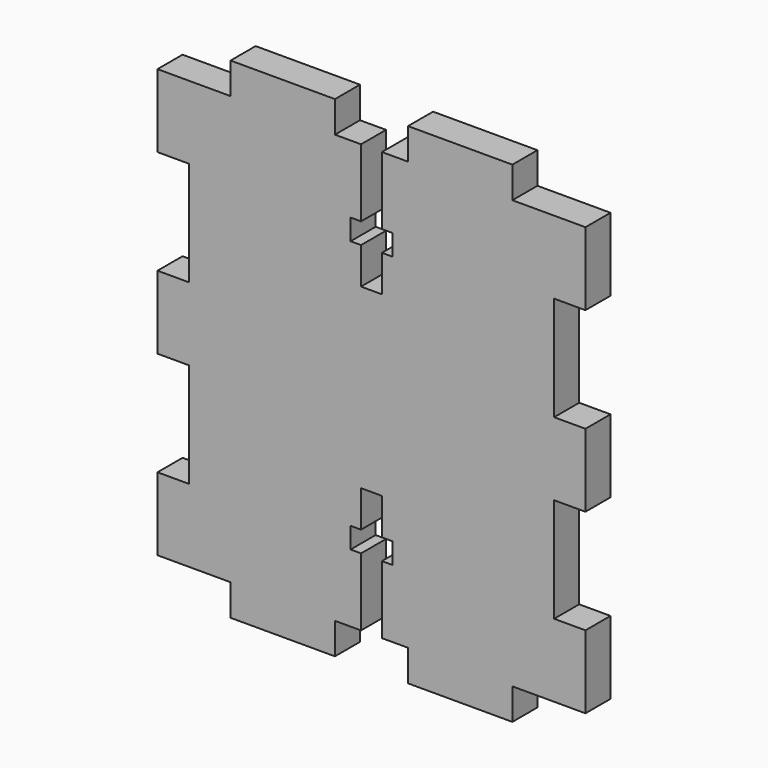
from build123d import *

# Parameters (mm, degrees)
F1_DEPTH = 3


with BuildPart() as f1:
    # F0 (on Front) → F1 (new body)
    with BuildSketch(Plane.XZ):
        Polygon((-7, 0), (0, 0), (0, 7), (-3, 7), (-3, 17), (0, 17), (0, 24), (-3, 24), (-3, 34), (0, 34), (0, 41), (-7, 41), (-7, 44), (-17, 44), (-17, 41), (-19.5, 41), (-19.5, 34.5), (-18.5, 34.5), (-18.5, 32.5), (-19.5, 32.5), (-19.5, 29), (-20.5, 29), (-21.5, 29), (-21.5, 32.5), (-22.5, 32.5), (-22.5, 34.5), (-21.5, 34.5), (-21.5, 41), (-24, 41), (-24, 44), (-34, 44), (-34, 41), (-41, 41), (-41, 34), (-38, 34), (-38, 24), (-41, 24), (-41, 17), (-38, 17), (-38, 7), (-41, 7), (-41, 0), (-34, 0), (-34, -3), (-24, -3), (-24, 0), (-21.5, 0), (-21.5, 6.5), (-22.5, 6.5), (-22.5, 8.5), (-21.5, 8.5), (-21.5, 12), (-20.5, 12), (-19.5, 12), (-19.5, 8.5), (-18.5, 8.5), (-18.5, 6.5), (-19.5, 6.5), (-19.5, 0), (-17, 0), (-17, -3), (-7, -3), align=None)
    extrude(amount=F1_DEPTH)


solid = f1.part
